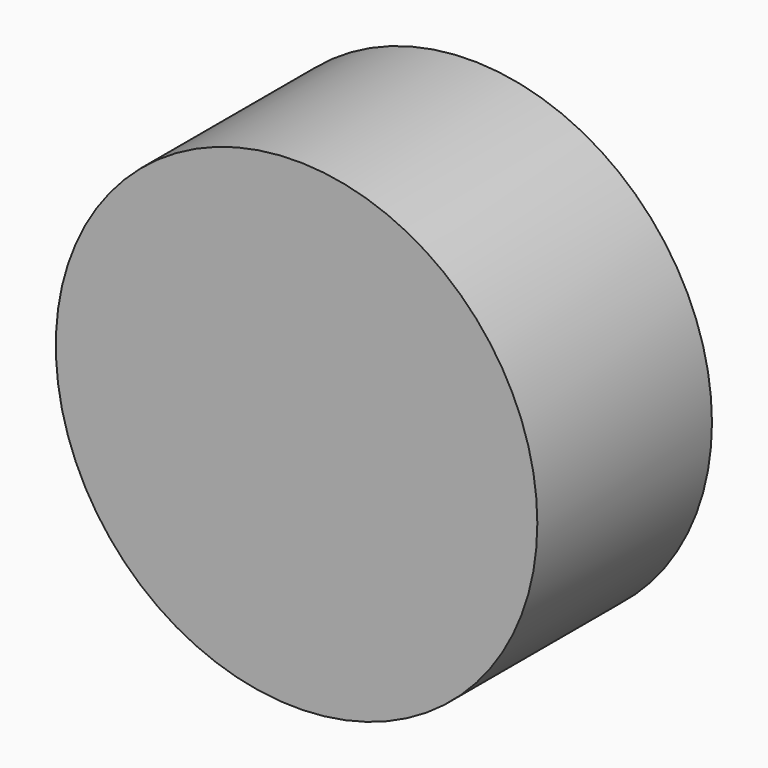
from build123d import *

# Parameters (mm, degrees)
F0_R      = 28.017266
F1_DEPTH  = 127
F1_FACE_R = 28.017266
F2_DEPTH  = 25.4


with BuildPart() as f1:
    # F0 (on Front) → F1 (new body)
    with BuildSketch(Plane.XZ):
        Circle(F0_R)
    extrude(amount=F1_DEPTH)

    # F1_face (on face) → F2 (intersect)
    with BuildSketch(Plane.XZ.offset(127)):
        Circle(F1_FACE_R)
    extrude(amount=-F2_DEPTH, mode=Mode.INTERSECT)


solid = f1.part
